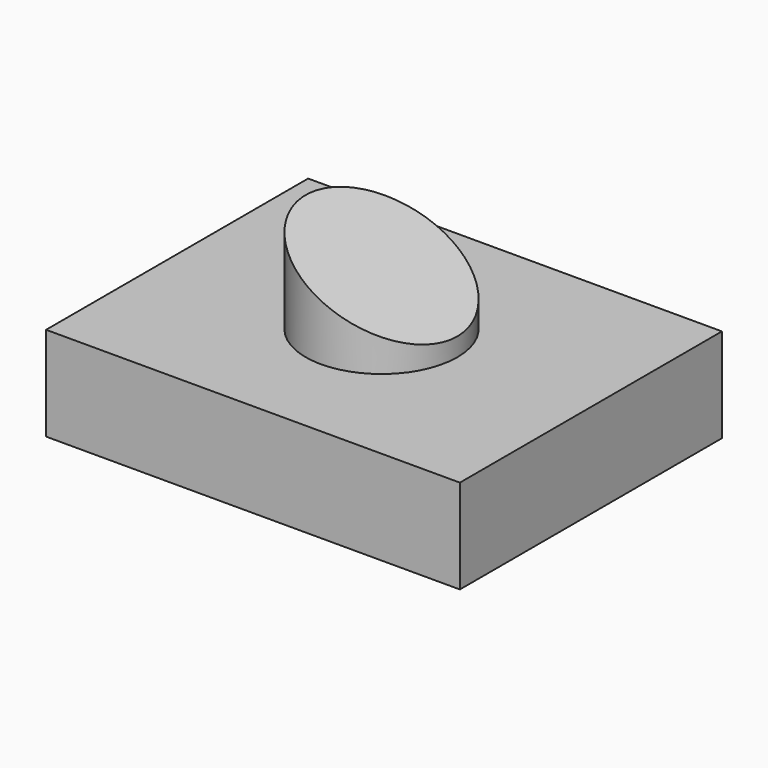
from build123d import *

# Parameters (mm, degrees)
F0_W     = 112.308848
F0_H     = 25.530828
F1_DEPTH = 88.9
F2_R     = 20.581967
F3_DEPTH = 25.4
F5_DEPTH = 177.8


with BuildPart() as f1:
    # F0 (on Front) → F1 (new body)
    with BuildSketch(Plane.XZ):
        with Locations((-18.293744, -12.765414)):
            Rectangle(F0_W, F0_H)
    extrude(amount=-F1_DEPTH)

    # F2 (on Top) → F3 (join)
    with BuildSketch(Plane.XY):
        with Locations((-19.09228, 44.607155)):
            Circle(F2_R)
    extrude(amount=F3_DEPTH)

    # F4 (on Front) → F5 (cut)
    with BuildSketch(Plane.XZ):
        Polygon((5.159772, 39.870981), (-63.458517, 37.190579), (5.159772, 3.149472), align=None)
    extrude(amount=-F5_DEPTH, mode=Mode.SUBTRACT)


solid = f1.part
